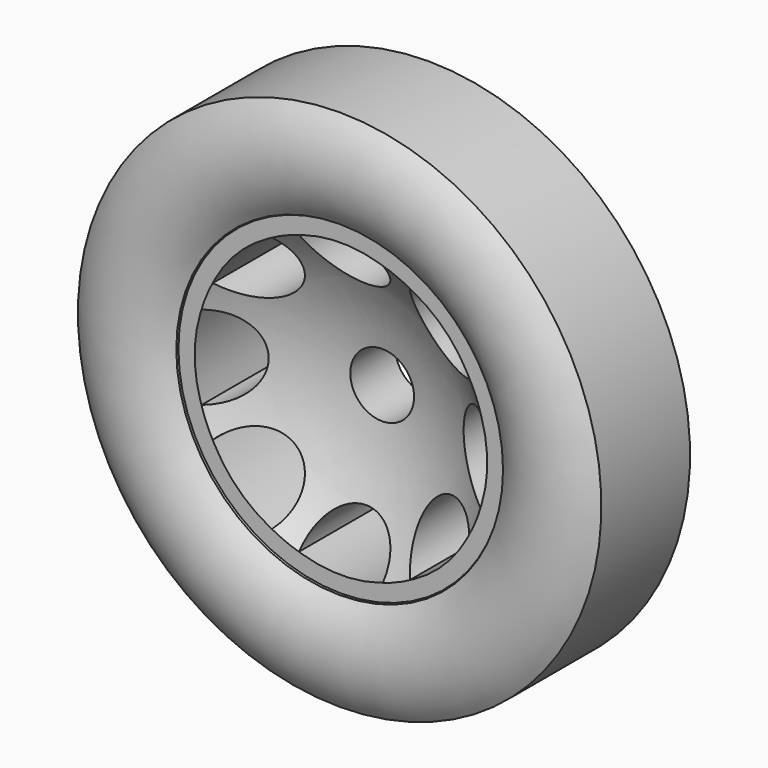
from build123d import *

# Parameters (mm, degrees)
F3_DEPTH = 49.276
F2_R     = 13.595988
F4_DEPTH = 41.402


with BuildPart() as f1:
    # F0 (on Right) → F1 (revolve)
    with BuildSketch(Plane.YZ):
        with BuildLine():
            Line((0, 0), (22.94514, 0))
            Line((22.94514, 0), (22.94514, 62.130667))
            Line((22.94514, 62.130667), (22.94514, 69.282405))
            Line((22.94514, 69.282405), (-22.94514, 69.282405))
            Line((-22.94514, 69.282405), (-22.94514, 62.130667))
            ThreePointArc((-22.94514, 62.130667), (-5.919573, 33.116081), (0, 0))
        make_face()
    revolve(axis=Axis((0, 11.47257, 0), (0, 1, 0)))

    # F2 (on Front) → F3 (cut, symmetric)
    with BuildSketch(Plane.XZ):
        with BuildLine():
            ThreePointArc((-29.394033, 54.679226), (-44.106895, 44.106895), (-54.679226, 29.394033))
            ThreePointArc((-54.679226, 29.394033), (-29.394033, 29.394033), (-29.394033, 54.679226))
        make_face()
        with BuildLine():
            ThreePointArc((17.879331, 59.448771), (0, 62.376569), (-17.879331, 59.448771))
            ThreePointArc((-17.879331, 59.448771), (0, 41.56944), (17.879331, 59.448771))
        make_face()
        with BuildLine():
            ThreePointArc((54.679226, 29.394033), (44.106895, 44.106895), (29.394033, 54.679226))
            ThreePointArc((29.394033, 54.679226), (29.394033, 29.394033), (54.679226, 29.394033))
        make_face()
        with BuildLine():
            ThreePointArc((59.448771, -17.879331), (62.376569, 0), (59.448771, 17.879331))
            ThreePointArc((59.448771, 17.879331), (41.56944, 0), (59.448771, -17.879331))
        make_face()
        with BuildLine():
            ThreePointArc((29.394033, -54.679226), (44.106895, -44.106895), (54.679226, -29.394033))
            ThreePointArc((54.679226, -29.394033), (29.394033, -29.394033), (29.394033, -54.679226))
        make_face()
        with BuildLine():
            ThreePointArc((-17.879331, -59.448771), (0, -62.376569), (17.879331, -59.448771))
            ThreePointArc((17.879331, -59.448771), (0, -41.56944), (-17.879331, -59.448771))
        make_face()
        with BuildLine():
            ThreePointArc((-54.679226, -29.394033), (-44.106895, -44.106895), (-29.394033, -54.679226))
            ThreePointArc((-29.394033, -54.679226), (-29.394033, -29.394033), (-54.679226, -29.394033))
        make_face()
        with BuildLine():
            ThreePointArc((-59.448771, 17.879331), (-62.376569, 0), (-59.448771, -17.879331))
            ThreePointArc((-59.448771, -17.879331), (-41.56944, 0), (-59.448771, 17.879331))
        make_face()
    extrude(amount=F3_DEPTH, both=True, mode=Mode.SUBTRACT)

    # F2 (on Front) → F4 (cut, symmetric)
    with BuildSketch(Plane.XZ):
        Circle(F2_R)
    extrude(amount=F4_DEPTH, both=True, mode=Mode.SUBTRACT)


with BuildPart() as f6:
    # F5 (on Right) → F6 (revolve)
    with BuildSketch(Plane.YZ):
        Polygon((-23.630474, 69.64805), (23.630474, 69.64805), (23.630474, 111.583821), (0, 111.583821), (-23.630474, 111.583821), align=None)
        with BuildLine():
            Line((23.630474, 111.583821), (23.630474, 69.64805))
            ThreePointArc((23.630474, 69.64805), (31.287122, 90.615936), (23.630474, 111.583821))
        make_face()
        with BuildLine():
            ThreePointArc((-23.630474, 111.583821), (-31.287122, 90.615936), (-23.630474, 69.64805))
            Line((-23.630474, 69.64805), (-23.630474, 111.583821))
        make_face()
    revolve(axis=Axis((0, -49.861483, 0), (0, -1, 0)))


solid = Compound([f1.part, f6.part])
